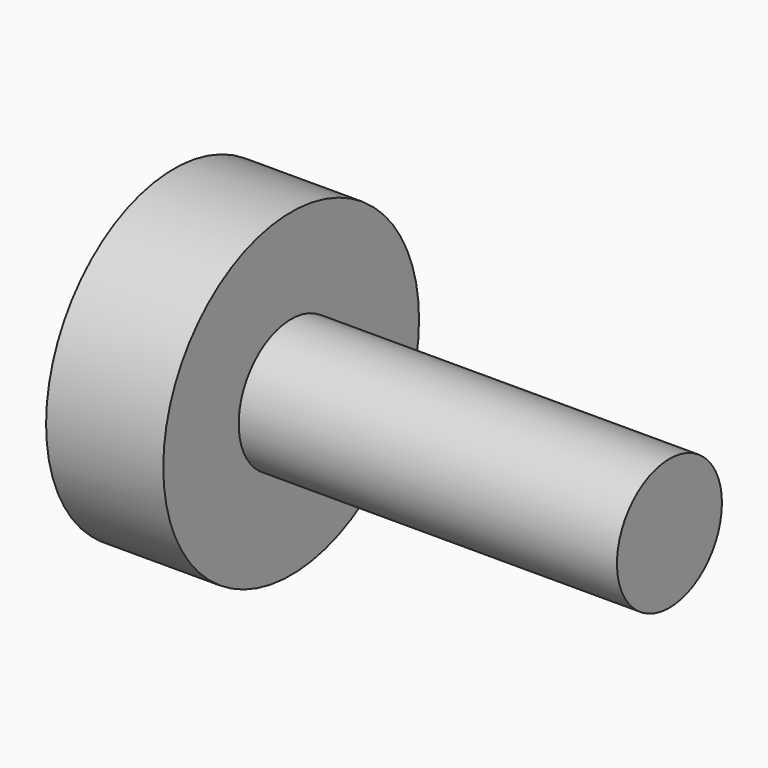
from build123d import *

# Parameters (mm, degrees)
F0_W = 84.132199
F0_H = 14.58858


with BuildPart() as f1:
    # F0 (on Top) → F1 (revolve)
    with BuildSketch(Plane.XY):
        Polygon((-60.47887, 35.550814), (-60.47887, 0), (-34.417719, 0), (-34.417719, 14.58858), (-34.417719, 35.550814), align=None)
        with Locations((7.64838, 7.29429)):
            Rectangle(F0_W, F0_H)
    revolve(axis=Axis((-5.382195, 0, 0), (1, 0, 0)))


solid = f1.part
